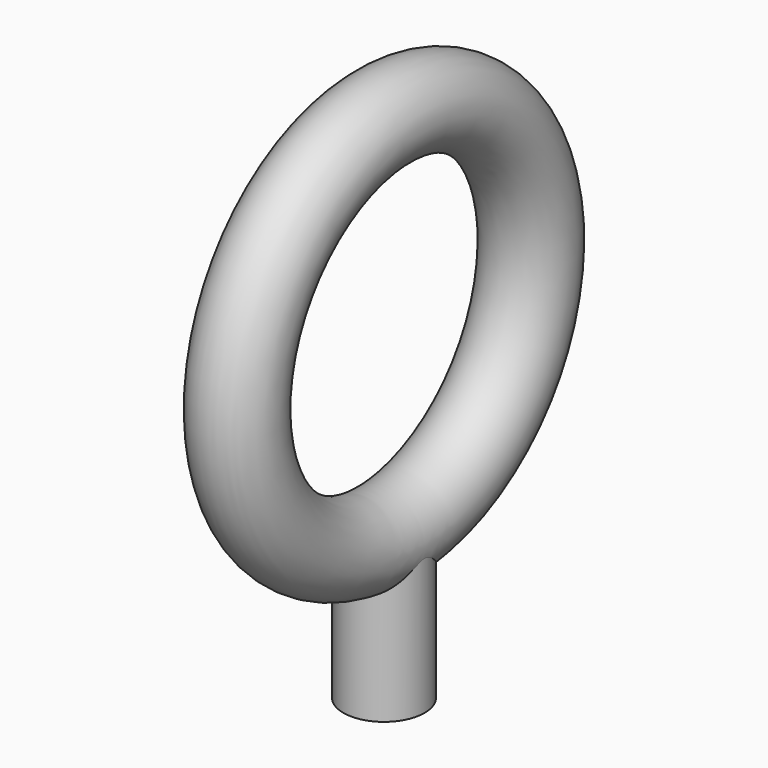
from build123d import *

# Parameters (mm, degrees)
F0_R     = 3.175
F1_DEPTH = 152.4
F3_R     = 0.2286
F4_DEPTH = 0.8128
F6_R     = 0.2342445073


with BuildPart() as f1:
    # F0 (on Top) → F1 (new body)
    with BuildSketch(Plane.XY):
        Circle(F0_R)
    extrude(amount=F1_DEPTH)


with BuildPart() as f4:
    # F3 (on Top) → F4 (new body)
    with BuildSketch(Plane.XY):
        Circle(F3_R)
    extrude(amount=F4_DEPTH)

    # F6 (on Front) → F7 (revolve)
    with BuildSketch(Plane.XZ):
        with Locations((0, 0.8163214079)):
            Circle(F6_R)
    revolve(axis=Axis((0, 0, 1.8492907984), (1, 0, 0)))


solid = f4.part
